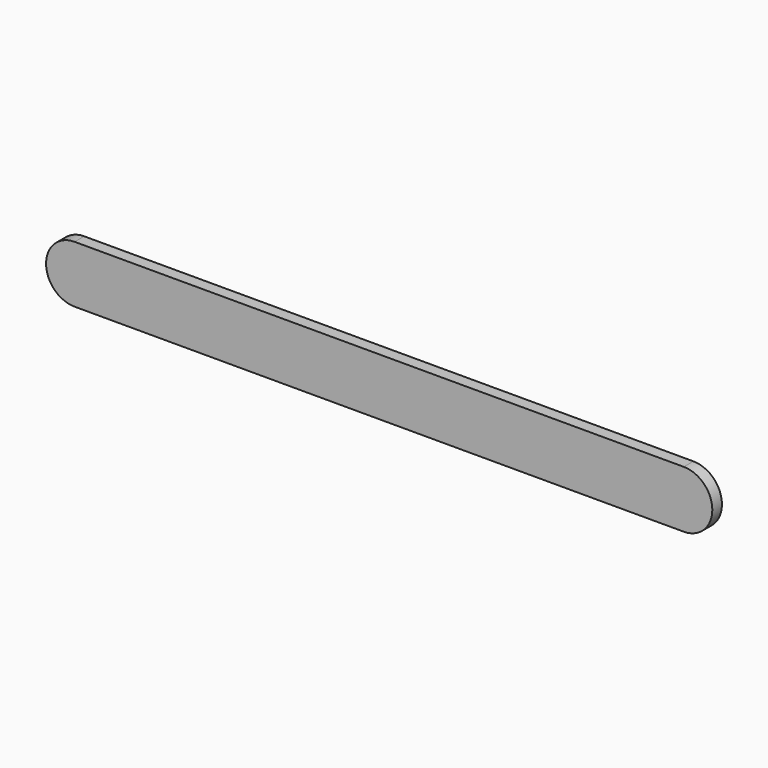
from build123d import *

# Parameters (mm, degrees)
F0_W     = 101.6
F0_H     = 9.525
F1_DEPTH = 2


with BuildPart() as f1:
    # F0 (on Front) → F1 (new body)
    with BuildSketch(Plane.XZ):
        with Locations((-13.421032, 6.015962)):
            Rectangle(F0_W, F0_H)
        with BuildLine():
            Line((-64.221032, 1.253462), (-64.221032, 10.778462))
            ThreePointArc((-64.221032, 10.778462), (-68.983532, 6.015962), (-64.221032, 1.253462))
        make_face()
        with BuildLine():
            ThreePointArc((37.378968, 1.253462), (42.141468, 6.015962), (37.378968, 10.778462))
            Line((37.378968, 10.778462), (37.378968, 1.253462))
        make_face()
    extrude(amount=F1_DEPTH)


solid = f1.part
